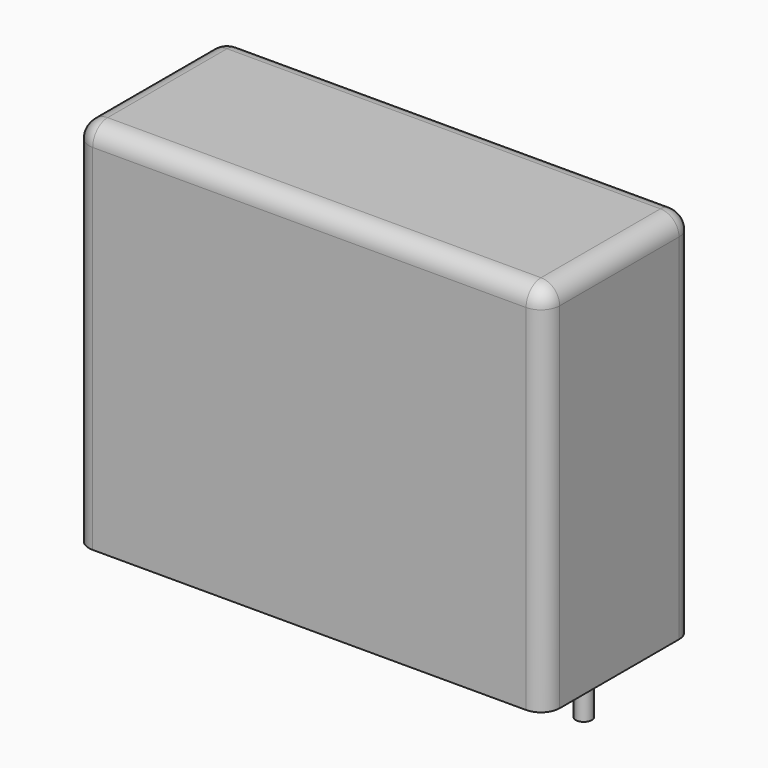
from build123d import *

# Parameters (mm, degrees)
SKETCH_W     = 26.5
SKETCH_H     = 10.5
PAD_DEPTH    = 21
FILLET_R     = 1.05
SKETCH001_R  = 0.45
PAD001_DEPTH = 3.2


with BuildPart() as fillet_body:
    # Sketch → Pad (new body)
    with BuildSketch(Plane.XY.offset(0.1)):
        with Locations((11.25, 0)):
            Rectangle(SKETCH_W, SKETCH_H)
    extrude(amount=PAD_DEPTH)

    # Fillet
    fillet_edges = [fillet_body.edges().sort_by_distance(p)[0] for p in [
        (-2, 0, 21.1),
        (-2, -5.25, 10.6),
        (11.25, -5.25, 21.1),
        (24.5, -5.25, 10.6),
        (24.5, 0, 21.1),
        (24.5, 5.25, 10.6),
        (11.25, 5.25, 21.1),
        (-2, 5.25, 10.6),
    ]]
    fillet(fillet_edges, radius=FILLET_R)


with BuildPart() as pad001:
    # Sketch001 → Pad001 (new body)
    with BuildSketch(Plane.XY.offset(0.5)):
        Circle(SKETCH001_R)
        with Locations((22.5, 0)):
            Circle(SKETCH001_R)
    extrude(amount=-PAD001_DEPTH)


solid = Compound([fillet_body.part, pad001.part])
